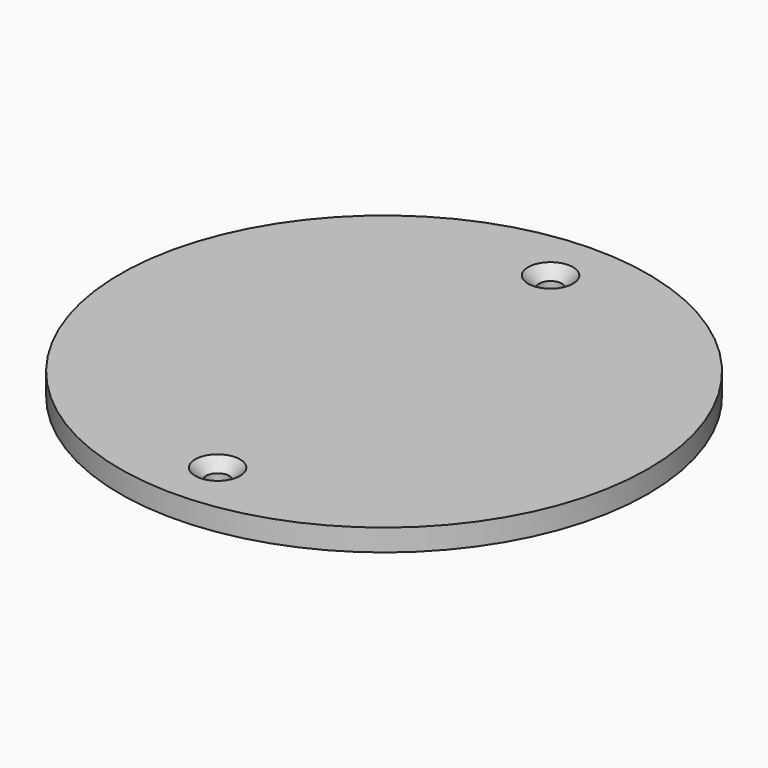
from build123d import *

# Parameters (mm, degrees)
F0_R     = 24.1
F0_R_2   = 1.05
F1_DEPTH = 2
F2_SIZE  = 1


with BuildPart() as f1:
    # F0 (on Top) → F1 (new body)
    with BuildSketch(Plane.XY):
        Circle(F0_R)
        with Locations((0, -19)):
            Circle(F0_R_2, mode=Mode.SUBTRACT)
        with Locations((0, 19)):
            Circle(F0_R_2, mode=Mode.SUBTRACT)
    extrude(amount=F1_DEPTH)

    # F2
    f2_edges = [f1.edges().sort_by_distance(p)[0] for p in [
        (-1.05, 19, 2),
        (-1.05, -19, 2),
    ]]
    chamfer(f2_edges, length=F2_SIZE)


solid = f1.part
